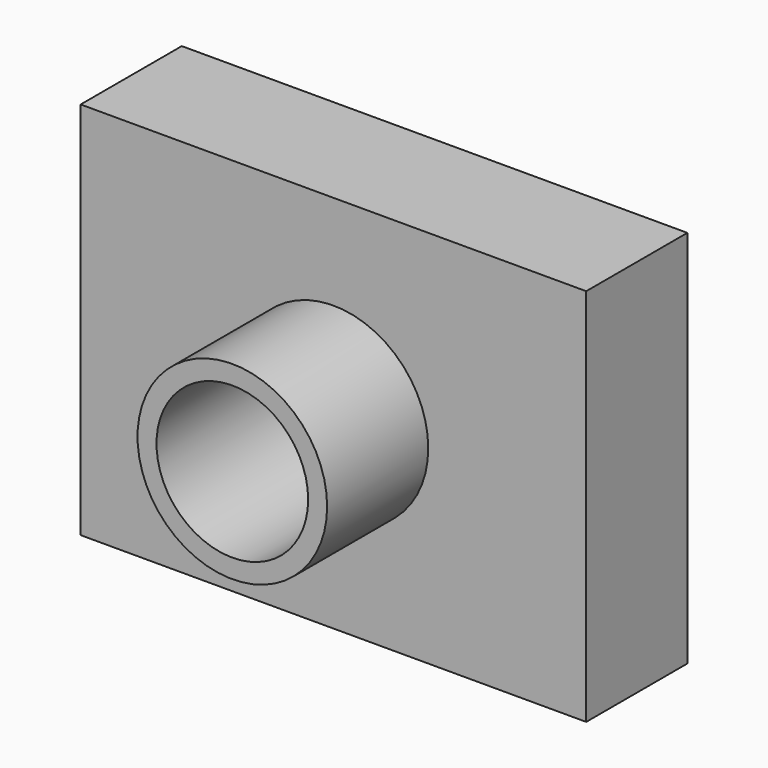
from build123d import *

# Parameters (mm, degrees)
F0_W     = 101.6
F0_H     = 76.2
F1_DEPTH = 25.4
F2_R     = 19.05
F3_DEPTH = 25.4
F4_R     = 15.24
F5_DEPTH = 76.2


with BuildPart() as f1:
    # F0 (on Front) → F1 (new body)
    with BuildSketch(Plane.XZ):
        Rectangle(F0_W, F0_H)
    extrude(amount=F1_DEPTH)

    # F2 (on face) → F3 (join)
    with BuildSketch(Plane.XZ.offset(25.4)):
        Circle(F2_R)
    extrude(amount=F3_DEPTH)

    # F4 (on face) → F5 (cut)
    with BuildSketch(Plane.XZ.offset(50.8)):
        Circle(F4_R)
    extrude(amount=-F5_DEPTH, mode=Mode.SUBTRACT)


solid = f1.part
